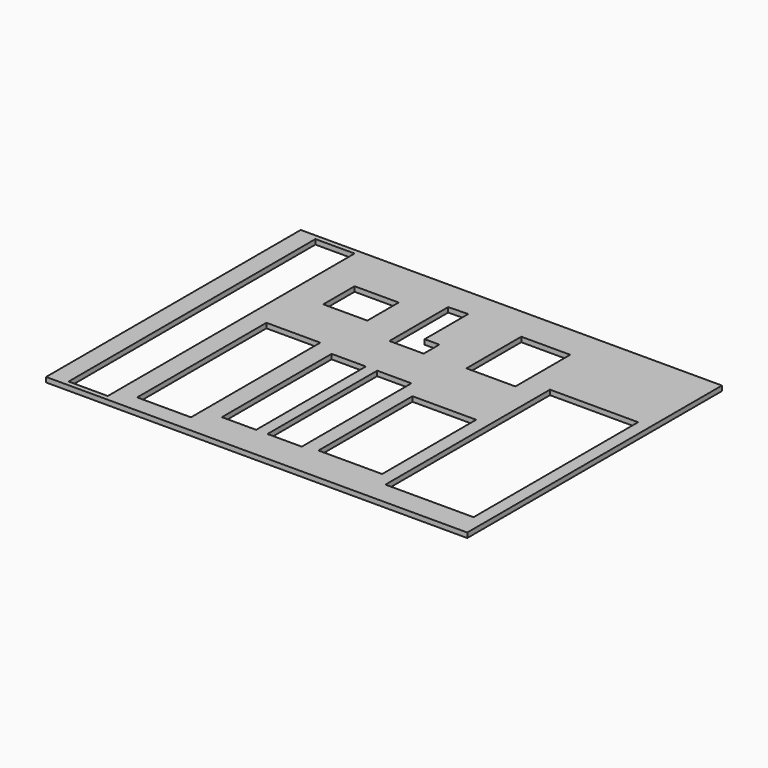
from build123d import *

# Parameters (mm, degrees)
F0_W     = 546.1
F0_H     = 412.75
F0_W_2   = 69.85
F0_H_2   = 209.55
F0_W_3   = 50.803214
F0_H_3   = 400.05
F0_W_4   = 44.45
F0_H_4   = 177.8
F0_W_5   = 82.55
F0_H_5   = 152.4
F0_W_6   = 114.3
F0_H_6   = 266.7
F0_W_7   = 57.15
F0_H_7   = 50.8
F0_W_8   = 63.5
F0_H_8   = 88.9
F1_DEPTH = 6.35


with BuildPart() as f1:
    # F0 (on Top) → F1 (new body)
    with BuildSketch(Plane.XY):
        with Locations((-79.137035, 1.100063)):
            Rectangle(F0_W, F0_H)
        with Locations((-217.242545, -77.974267)):
            Rectangle(F0_W_2, F0_H_2, mode=Mode.SUBTRACT)
        with Locations((-302.693501, 1.100063)):
            Rectangle(F0_W_3, F0_H_3, mode=Mode.SUBTRACT)
        with Locations((-135.863274, -74.043113)):
            Rectangle(F0_W_4, F0_H_4, mode=Mode.SUBTRACT)
        with Locations((-76.783568, -74.043113)):
            Rectangle(F0_W_4, F0_H_4, mode=Mode.SUBTRACT)
        with Locations((5.207247, -82.770335)):
            Rectangle(F0_W_5, F0_H_5, mode=Mode.SUBTRACT)
        with Locations((120.739044, -41.674733)):
            Rectangle(F0_W_6, F0_H_6, mode=Mode.SUBTRACT)
        with Locations((-203.919965, 119.742642)):
            Rectangle(F0_W_7, F0_H_7, mode=Mode.SUBTRACT)
        Polygon((-129.988939, 73.395066), (-129.988939, 168.645066), (-104.600592, 169.414403), (-104.600592, 98.795066), (-85.538939, 98.795066), (-85.538939, 73.395066), align=None, mode=Mode.SUBTRACT)
        with Locations((0.121297, 119.737602)):
            Rectangle(F0_W_8, F0_H_8, mode=Mode.SUBTRACT)
    extrude(amount=F1_DEPTH)


solid = f1.part
